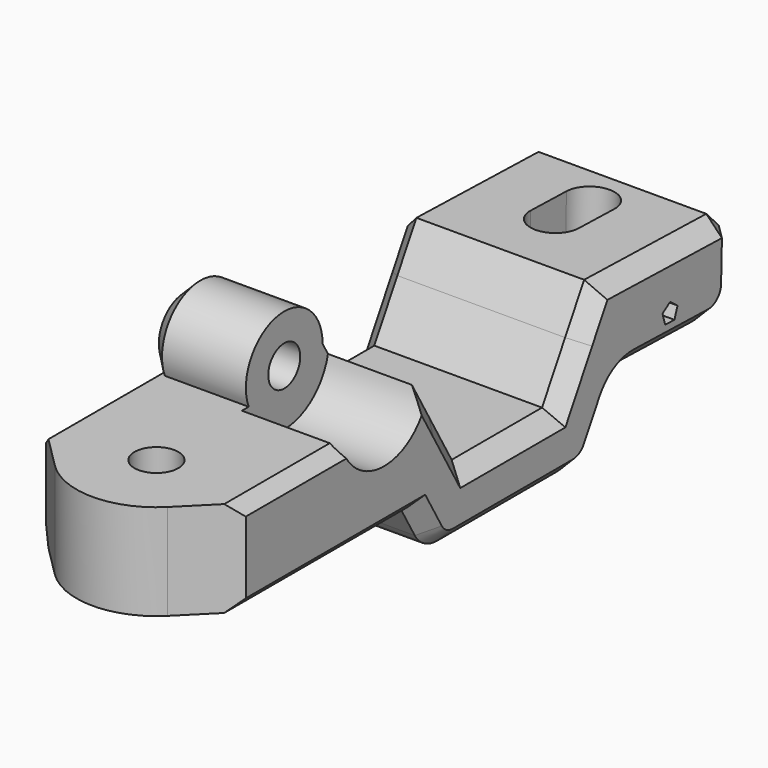
from build123d import *

# Parameters (mm, degrees)
F0_R     = 2.5
F1_DEPTH = 25
F2_R     = 7
F3_DEPTH = 12.5
F5_DEPTH = 25
F6_R     = 2.75
F7_DEPTH = 25
F8_SIZE  = 2
F9_SIZE  = 1.5


with BuildPart() as f1:
    # F0 (on Right) → F1 (new body)
    with BuildSketch(Plane.YZ):
        with BuildLine():
            Line((34.771998, -1.392547), (13.660271, -0.839717))
            Line((13.660271, -0.839717), (10.68098, -6))
            Line((10.68098, -6), (7.072541, -12.25))
            Line((7.072541, -12.25), (-7.072541, -12.25))
            Line((-7.072541, -12.25), (-10.68098, -6))
            Line((-10.68098, -6), (-14.145082, 0))
            ThreePointArc((-14.145082, 0), (-18.998978, -5.88952), (-25.70723, -2.25))
            Line((-25.70723, -2.25), (-50.145082, -2.25))
            Line((-50.145082, -2.25), (-50.145082, -14.25))
            Line((-50.145082, -14.25), (-15.155445, -14.25))
            Line((-15.155445, -14.25), (-12.846043, -18.25))
            ThreePointArc((-12.846043, -18.25), (-11.381942, -19.714102), (-9.381942, -20.25))
            Line((-9.381942, -20.25), (9.381942, -20.25))
            ThreePointArc((9.381942, -20.25), (11.381942, -19.714102), (12.846043, -18.25))
            Line((12.846043, -18.25), (15.299782, -14))
            ThreePointArc((15.299782, -14), (16.809399, -12.510016), (18.868592, -12.001371))
            Line((18.868592, -12.001371), (30.48486, -12.305553))
            ThreePointArc((30.48486, -12.305553), (33.342986, -11.208422), (34.588197, -8.411632))
            Line((34.588197, -8.411632), (34.771998, -1.392547))
        make_face()
        Polygon((25.287627, -9.3256), (23.83504, -9.287563), (23.422342, -7.894316), (24.619867, -7.07128), (25.772677, -7.955862), align=None, mode=Mode.SUBTRACT)
        with BuildLine():
            ThreePointArc((-25.70723, -2.25), (-18.998978, -5.88952), (-14.145082, 0))
            ThreePointArc((-14.145082, 0), (-21.291185, 5.88952), (-25.70723, -2.25))
        make_face()
        with Locations((-20.145082, 0)):
            Circle(F0_R, mode=Mode.SUBTRACT)
    extrude(amount=F1_DEPTH)

    # F2 (on face) → F3 (cut)
    with BuildSketch(Plane.YZ.offset(25)):
        with Locations((-20.145082, 0)):
            Circle(F2_R)
    extrude(amount=-F3_DEPTH, mode=Mode.SUBTRACT)

    # F4 (on face) → F5 (cut)
    with BuildSketch(Plane(origin=(0, -0.301122, -11.499394), x_dir=(1, 0, 0), z_dir=(0, -0.026177, -0.999657))):
        with BuildLine():
            Line((9.5, -22.176285), (9.5, -27.796535))
            ThreePointArc((9.5, -27.796535), (12.5, -30.796535), (15.5, -27.796535))
            Line((15.5, -27.796535), (15.5, -22.176285))
            ThreePointArc((15.5, -22.176285), (12.5, -19.176285), (9.5, -22.176285))
        make_face()
    extrude(amount=-F5_DEPTH, mode=Mode.SUBTRACT)

    # F6 (on face) → F7 (cut)
    with BuildSketch(Plane.XY.offset(-2.25)):
        with Locations((12.5, -40.145082)):
            Circle(F6_R)
        with BuildLine():
            ThreePointArc((19.571068, -47.216149), (12.5, -50.145082), (5.428932, -47.216149))
            Line((5.428932, -47.216149), (-9.84301, -31.944207))
            Line((-9.84301, -31.944207), (-9.84301, -58.411797))
            Line((-9.84301, -58.411797), (34.84301, -58.411797))
            Line((34.84301, -58.411797), (34.84301, -31.944207))
            Line((34.84301, -31.944207), (19.571068, -47.216149))
        make_face()
    extrude(amount=-F7_DEPTH, mode=Mode.SUBTRACT)

    # F8
    f8_edges = [f1.edges().sort_by_distance(p)[0] for p in [
        (0, 24.216134, -1.116132),
        (0, 10.366406, -6.544858),
        (0, 0, -12.25),
        (0, -10.608811, -6.125),
        (0, -21.291185, 5.88952),
        (0, -14.000744, -16.25),
        (12.5, 34.771998, -1.392547),
        (25, 24.216134, -1.116132),
        (25, 10.366406, -6.544858),
        (25, 0, -12.25),
        (25, -10.186207, -6.856971),
        (25, -14.000744, -16.25),
        (25, -11.381942, -19.714102),
        (25, 0, -20.25),
        (25, 11.381942, -19.714102),
        (25, 14.072913, -16.125),
        (25, 24.676726, -12.153462),
        (25, 16.809399, -12.510016),
        (25, 33.342986, -11.208422),
        (25, 34.680097, -4.902089),
        (0, -11.381942, -19.714102),
        (0, 0, -20.25),
        (0, 11.381942, -19.714102),
        (0, 14.072913, -16.125),
        (0, 16.809399, -12.510016),
        (0, 24.676726, -12.153462),
        (0, 33.342986, -11.208422),
        (0, 34.680097, -4.902089),
    ]]
    chamfer(f8_edges, length=F8_SIZE)

    # F9
    f9_edges = [f1.edges().sort_by_distance(p)[0] for p in [
        (25, -28.471331, -14.25),
        (25, -34.280418, -2.25),
        (0, -33.747224, -2.25),
        (0, -28.471331, -14.25),
    ]]
    chamfer(f9_edges, length=F9_SIZE)


solid = f1.part
